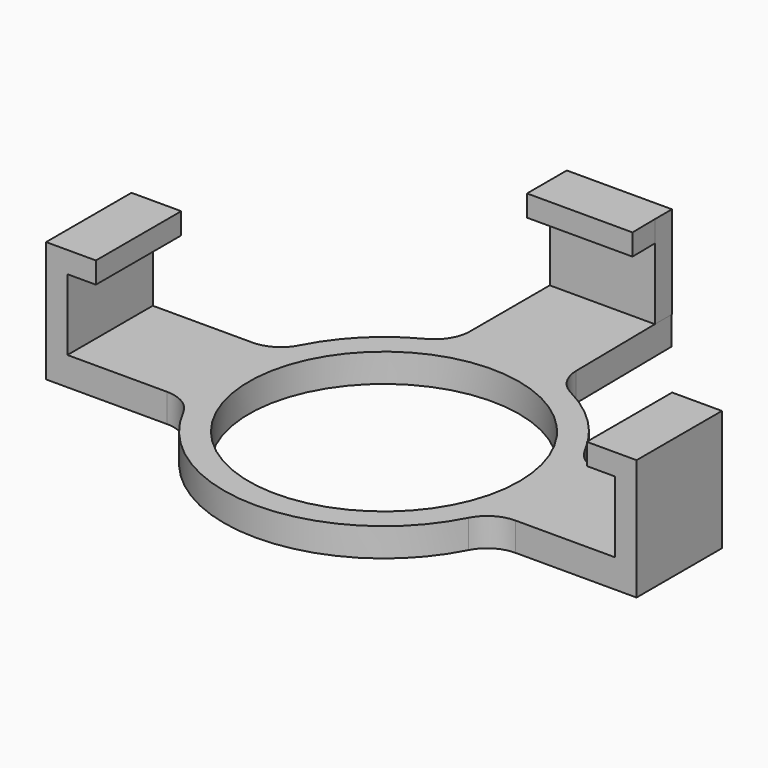
from build123d import *

# Parameters (mm, degrees)
F0_R     = 19
F1_DEPTH = 4
F2_W     = 3
F2_H     = 15
F3_DEPTH = 13
F2_W_2   = 4
F4_DEPTH = 13
F5_R     = 5
F6_DEPTH = 10


with BuildPart() as f1:
    # F0 (on Top) → F1 (new body)
    with BuildSketch(Plane.XY):
        with BuildLine():
            Line((-41.5, -7.5), (-21.2132034356, -7.5))
            ThreePointArc((-21.2132034356, -7.5), (0, -22.5), (21.2132034356, -7.5))
            Line((21.2132034356, -7.5), (41.5, -7.5))
            Line((41.5, -7.5), (41.5, 7.5))
            Line((41.5, 7.5), (21.2132034356, 7.5))
            ThreePointArc((21.2132034356, 7.5), (15.9099025767, 15.9099025767), (7.5, 21.2132034356))
            Line((7.5, 21.2132034356), (7.238372093, 41.5))
            Line((7.238372093, 41.5), (-7.5, 41.5))
            Line((-7.5, 41.5), (-7.5, 21.2132034356))
            ThreePointArc((-7.5, 21.2132034356), (-15.9099025767, 15.9099025767), (-21.2132034356, 7.5))
            Line((-21.2132034356, 7.5), (-41.5, 7.5))
            Line((-41.5, 7.5), (-41.5, -7.5))
        make_face()
        Circle(F0_R, mode=Mode.SUBTRACT)
    extrude(amount=F1_DEPTH)

    # F2 (on face) → F3 (join)
    with BuildSketch(Plane.XY.offset(4)):
        Polygon((7.238372093, 41.5), (7.2770614799, 38.5), (7.2770614799, 41.5), align=None)
        with Locations((-40, 0)):
            Rectangle(F2_W, F2_H)
        with Locations((40, 0)):
            Rectangle(F2_W, F2_H)
        Polygon((-7.5, 41.5), (-7.5, 38.5), (7.2770614799, 38.5), (7.238372093, 41.5), align=None)
    extrude(amount=F3_DEPTH)

    # F2 (on face) → F4 (join)
    with BuildSketch(Plane.XY.offset(4)):
        with Locations((-36.5, 0)):
            Rectangle(F2_W_2, F2_H)
        with Locations((36.5, 0)):
            Rectangle(F2_W_2, F2_H)
        Polygon((-7.5, 38.5), (-7.5, 34.5), (7.3286473291, 34.5), (7.2770614799, 38.5), align=None)
    extrude(amount=F4_DEPTH)

    # F5
    f5_edges = [f1.edges().sort_by_distance(p)[0] for p in [
        (-21.213203, -7.5, 2),
        (21.213203, -7.5, 2),
        (21.213203, 7.5, 2),
        (7.5, 21.213203, 2),
        (-21.213203, 7.5, 2),
        (-7.5, 21.213203, 2),
    ]]
    fillet(f5_edges, radius=F5_R)

    # F2 (on face) → F6 (cut)
    with BuildSketch(Plane.XY.offset(4)):
        Polygon((-7.5, 38.5), (-7.5, 34.5), (7.3286473291, 34.5), (7.2770614799, 38.5), align=None)
        with Locations((-36.5, 0)):
            Rectangle(F2_W_2, F2_H)
        with Locations((36.5, 0)):
            Rectangle(F2_W_2, F2_H)
    extrude(amount=F6_DEPTH, mode=Mode.SUBTRACT)


solid = f1.part
